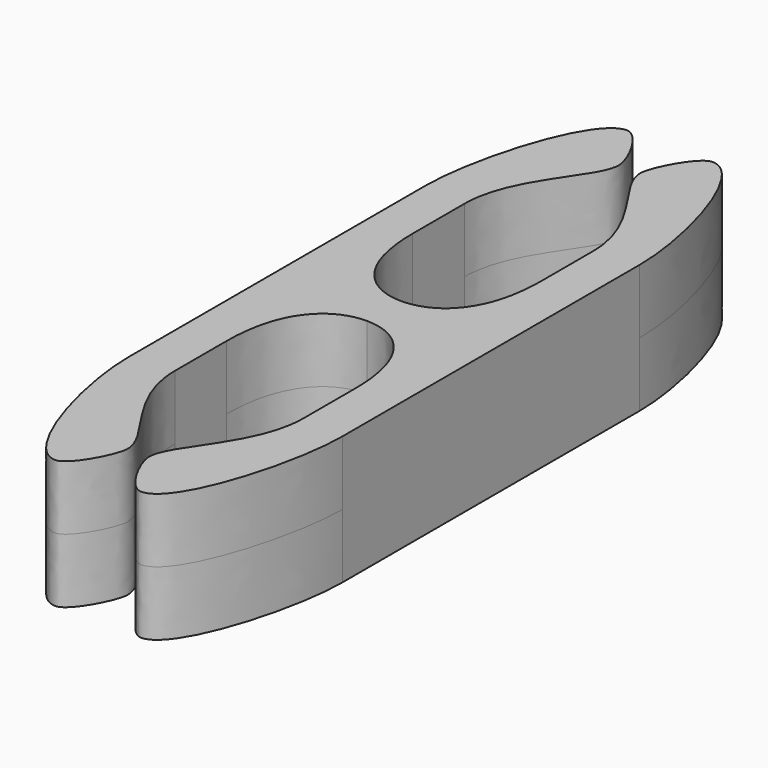
from build123d import *

# Parameters (mm, degrees)
F1_DEPTH = 4.5


with BuildPart() as f1:
    # F0 (on Top) → F1 (new body, symmetric)
    with BuildSketch(Plane.XY):
        with BuildLine():
            add(Edge.make_bspline(
                [(-7.5, 13), (-7.5, 17.198036), (-5.250996, 25), (-3, 25)],
                knots=[0, 0, 0, 0, 12.816006, 12.816006, 12.816006, 12.816006], degree=3))
            Line((-7.5, 13), (-7.5, 0))
            Line((-7.5, 0), (0, 0))
            Line((0, 0), (0, 1.5))
            add(Edge.make_bspline(
                [(0, 1.5), (-2.249997, 1.499998), (-4.5, 3.330901), (-4.5, 8.138856)],
                knots=[8.020239, 8.020239, 8.020239, 8.020239, 16.040489, 16.040489, 16.040489, 16.040489], degree=3))
            Line((-4.5, 8.138856), (-4.5, 12.660368))
            add(Edge.make_bspline(
                [(-0.75, 21.5), (-0.75, 19.559495), (-4.5, 16.82131), (-4.5, 12.660368)],
                knots=[0, 0, 0, 0, 9.602166, 9.602166, 9.602166, 9.602166], degree=3))
            add(Edge.make_bspline(
                [(-3, 25), (-2.120287, 25), (-0.75, 22.401217), (-0.75, 21.5)],
                knots=[0, 0, 0, 0, 4.160829, 4.160829, 4.160829, 4.160829], degree=3))
        make_face()
    extrude(amount=F1_DEPTH, both=True)

    # F2: F1 across face


with BuildPart() as f1_1:
    add(f1.part)
    add(f1.part.mirror(Plane(origin=(0, 0.75, 0), x_dir=(0, 1, 0), z_dir=(1, 0, 0))))

    # F3: F1 across face


with BuildPart() as f1_2:
    add(f1_1.part)
    add(f1_1.part.mirror(Plane.XZ))


solid = f1_2.part
